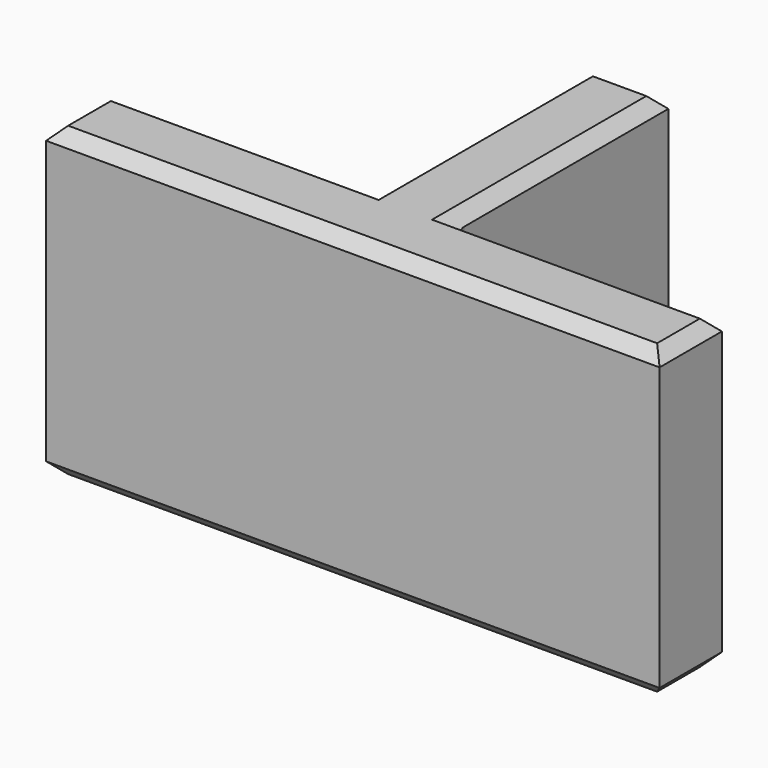
from build123d import *

# Parameters (mm, degrees)
F0_W     = 21.825
F0_H     = 6.35
F0_W_2   = 6.35
F0_H_2   = 21.825
F1_DEPTH = 25
F2_SIZE  = 1
F3_R     = 1


with BuildPart() as f1:
    # F0 (on Top) → F1 (new body)
    with BuildSketch(Plane.XY):
        with Locations((-14.0875, 0)):
            Rectangle(F0_W, F0_H)
        Rectangle(F0_W_2, F0_H)
        with Locations((14.0875, 0)):
            Rectangle(F0_W, F0_H)
        with Locations((0, 14.0875)):
            Rectangle(F0_W_2, F0_H_2)
    extrude(amount=F1_DEPTH)

    # F2
    f2_edges = [f1.edges().sort_by_distance(p)[0] for p in [
        (-25, 0, 0),
        (0, -3.175, 0),
        (25, 0, 0),
        (14.0875, 3.175, 0),
        (3.175, 14.0875, 0),
        (0, 25, 0),
        (-3.175, 14.0875, 0),
        (-14.0875, 3.175, 0),
        (-25, 0, 25),
        (0, -3.175, 25),
        (25, 0, 25),
        (14.0875, 3.175, 25),
        (3.175, 14.0875, 25),
        (0, 25, 25),
        (-3.175, 14.0875, 25),
        (-14.0875, 3.175, 25),
    ]]
    chamfer(f2_edges, length=F2_SIZE)

    # F3
    f3_edges = [f1.edges().sort_by_distance(p)[0] for p in [
        (3.175, 3.175, 12.5),
        (-3.175, 3.175, 12.5),
    ]]
    fillet(f3_edges, radius=F3_R)


solid = f1.part
